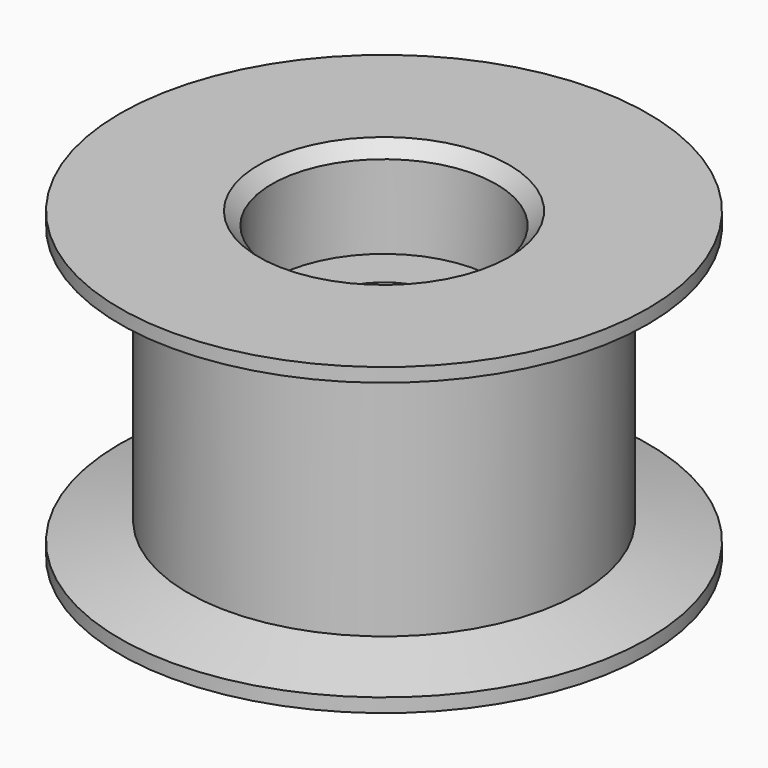
from build123d import *

# Parameters (mm, degrees)
F2_SIZE = 0.4


with BuildPart() as f1:
    # F0 (on Front) → F1 (revolve)
    with BuildSketch(Plane.XZ):
        Polygon((3.5, 3), (3.5, 0), (8.231808, 0), (8.231808, 0.431463), (6.11, 1), (6.11, 8.5), (8.231808, 9.068537), (8.231808, 9.5), (3.5, 9.5), (3.5, 6.5), (1.6, 6.5), (1.6, 3), align=None)
    revolve(axis=Axis((0, 0, 7.577015), (0, 0, 1)))

    # F2
    f2_edges = [f1.edges().sort_by_distance(p)[0] for p in [
        (-3.5, 0, 9.5),
        (-3.5, 0, 0),
        (-1.6, 0, 6.5),
        (-1.6, 0, 3),
        (1.6, 0, 4.75),
    ]]
    chamfer(f2_edges, length=F2_SIZE)


solid = f1.part
